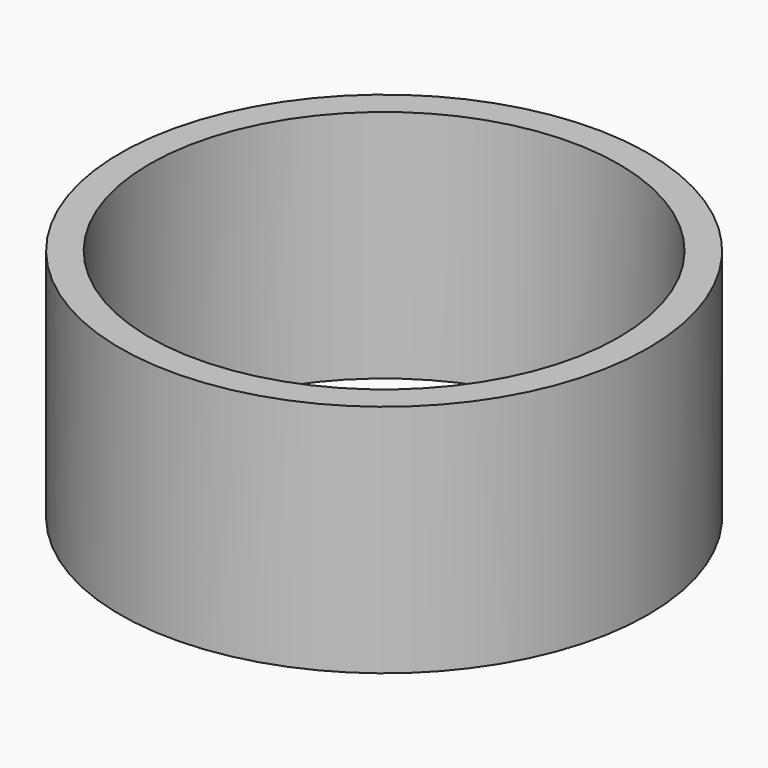
from build123d import *

# Parameters (mm, degrees)
F0_R     = 900
F0_R_2   = 800
F1_DEPTH = 400


with BuildPart() as f1:
    # F0 (on Top) → F1 (new body, symmetric)
    with BuildSketch(Plane.XY):
        with Locations((0, -1.268197)):
            Circle(F0_R)
        with Locations((0, -1.268197)):
            Circle(F0_R_2, mode=Mode.SUBTRACT)
    extrude(amount=F1_DEPTH, both=True)


solid = f1.part
